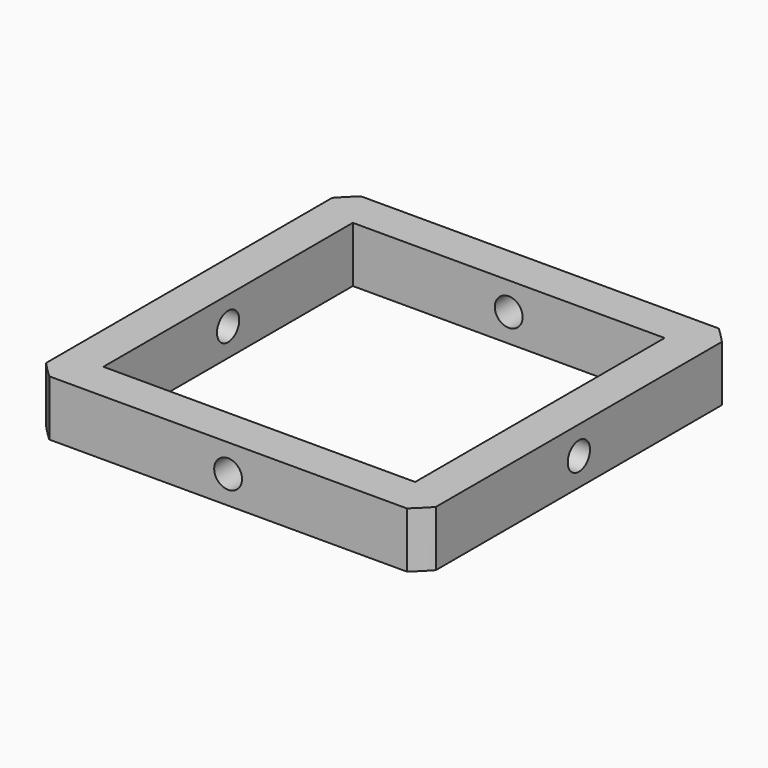
from build123d import *

# Parameters (mm, degrees)
PAD_DEPTH            = 5
SKETCH017_W          = 56
SKETCH017_H          = 56
POCKET_DEPTH         = 5.001
POCKET_DEPTH_BACK    = 5.001
SKETCH004_R          = 2.5
POCKET010_DEPTH      = 69.501
POCKET010_DEPTH_BACK = 0.501
SKETCH003_R          = 2.5
POCKET011_DEPTH      = 0.001
POCKET011_DEPTH_BACK = 70.001


with BuildPart() as part:
    # Sketch → Pad (new body, symmetric)
    with BuildSketch(Plane.XY):
        with BuildLine():
            Line((-35, 32.113081), (-35, -32.113081))
            ThreePointArc((-35, -32.113081), (-33.587572, -33.587572), (-32.113081, -35))
            Line((-32.113081, -35), (32.113081, -35))
            ThreePointArc((32.113081, -35), (33.587572, -33.587572), (35, -32.113081))
            Line((35, -32.113081), (35, 32.113081))
            ThreePointArc((35, 32.113081), (33.587572, 33.587572), (32.113081, 35))
            Line((32.113081, 35), (-32.113081, 35))
            ThreePointArc((-32.113081, 35), (-33.587572, 33.587572), (-35, 32.113081))
        make_face()
    extrude(amount=PAD_DEPTH, both=True)

    # Sketch017 → Pocket (cut, two sides)
    with BuildSketch(Plane.XY) as pocket_sk:
        Rectangle(SKETCH017_W, SKETCH017_H)
    extrude(amount=-POCKET_DEPTH, mode=Mode.SUBTRACT)
    extrude(pocket_sk.sketch, amount=POCKET_DEPTH_BACK, mode=Mode.SUBTRACT)

    # Sketch004 → Pocket010 (cut, two sides)
    with BuildSketch(Plane(origin=(0, 34.5, 0), x_dir=(-1, 0, 0), z_dir=(0, 1, 0))) as pocket010_sk:
        Circle(SKETCH004_R)
    extrude(amount=-POCKET010_DEPTH, mode=Mode.SUBTRACT)
    extrude(pocket010_sk.sketch, amount=POCKET010_DEPTH_BACK, mode=Mode.SUBTRACT)

    # Sketch003 → Pocket011 (cut, two sides)
    with BuildSketch(Plane(origin=(-35, 0, 0), x_dir=(0, 0, -1), z_dir=(1, 0, 0))) as pocket011_sk:
        Circle(SKETCH003_R)
    extrude(amount=-POCKET011_DEPTH, mode=Mode.SUBTRACT)
    extrude(pocket011_sk.sketch, amount=POCKET011_DEPTH_BACK, mode=Mode.SUBTRACT)


solid = part.part
